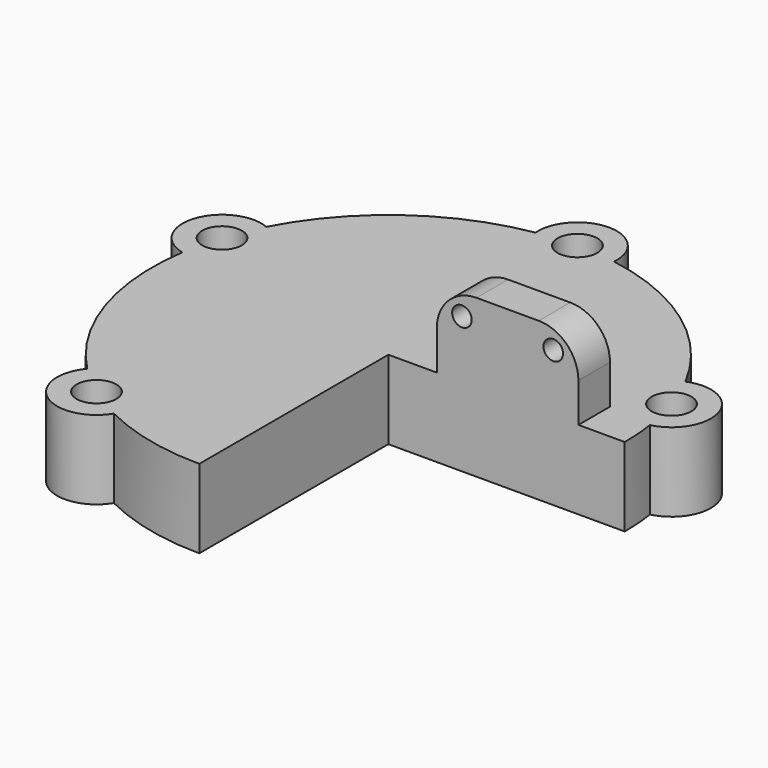
from build123d import *

# Parameters (mm, degrees)
F2_DEPTH  = 3.175
F4_DEPTH  = 3.175
F5_R      = 0.8001
F6_DEPTH  = 3.2004
F7_R      = 0.8001
F8_DEPTH  = 25.4
F9_W      = 5.7083697757
F9_H      = 1.5914540656
F10_DEPTH = 3.175
F12_DEPTH = 25.4
F13_R     = 0.3937
F14_DEPTH = 25.4


with BuildPart() as f2:
    # F1 (on face) → F2 (new body)
    with BuildSketch(Plane.XY):
        with BuildLine():
            ThreePointArc((-1.5819782441, 9.3927083333), (-6.1504992572, -7.2730312723), (9.525, 0))
            ThreePointArc((9.525, 0), (7.2730312723, 6.1504992572), (1.5819782441, 9.3927083333))
            ThreePointArc((1.5819782441, 9.3927083333), (1.191708121, 9.4501564407), (0.7993940003, 9.4913958))
            ThreePointArc((0.7993940003, 9.4913958), (0, 8.7249), (-0.7993940003, 9.4913958))
            ThreePointArc((-0.7993940003, 9.4913958), (-1.191708121, 9.4501564407), (-1.5819782441, 9.3927083333))
        make_face()
        with BuildLine():
            ThreePointArc((0.7993940003, 9.4913958), (1.191708121, 9.4501564407), (1.5819782441, 9.3927083333))
            ThreePointArc((1.5819782441, 9.3927083333), (0, 11.1125), (-1.5819782441, 9.3927083333))
            ThreePointArc((-1.5819782441, 9.3927083333), (-1.191708121, 9.4501564407), (-0.7993940003, 9.4913958))
            ThreePointArc((-0.7993940003, 9.4913958), (-0.0168058077, 10.3249234806), (0.8001, 9.525))
            ThreePointArc((0.8001, 9.525), (0.7999234806, 9.5081941923), (0.7993940003, 9.4913958))
        make_face()
    extrude(amount=F2_DEPTH)

    # F3 (on Top) → F4 (join)
    with BuildSketch(Plane.XY):
        with BuildLine():
            ThreePointArc((0.7993940003, 9.4913958), (1.191708121, 9.4501564407), (1.5819782441, 9.3927083333))
            ThreePointArc((1.5819782441, 9.3927083333), (0, 11.1125), (-1.5819782441, 9.3927083333))
            ThreePointArc((-1.5819782441, 9.3927083333), (-1.191708121, 9.4501564407), (-0.7993940003, 9.4913958))
            ThreePointArc((-0.7993940003, 9.4913958), (-0.0168058077, 10.3249234806), (0.8001, 9.525))
            ThreePointArc((0.8001, 9.525), (0.7999234806, 9.5081941923), (0.7993940003, 9.4913958))
        make_face()
        with BuildLine():
            ThreePointArc((-0.7993940003, 9.4913958), (0, 9.525), (0.7993940003, 9.4913958))
            ThreePointArc((0.7993940003, 9.4913958), (0.7999234806, 9.5081941923), (0.8001, 9.525))
            ThreePointArc((0.8001, 9.525), (-0.0168058077, 10.3249234806), (-0.7993940003, 9.4913958))
        make_face()
        with BuildLine():
            ThreePointArc((4.2410481532, -8.5287241462), (6.5317636161, -8.99020135), (6.8007427217, -6.6689971835))
            ThreePointArc((6.8007427217, -6.6689971835), (6.51877471, -6.9448687015), (6.2256258064, -7.2088284984))
            ThreePointArc((6.2256258064, -7.2088284984), (6.3542336867, -7.4427136488), (6.3987545281, -7.7058868714))
            ThreePointArc((6.3987545281, -7.7058868714), (5.8298612048, -8.4718525904), (4.9321791435, -8.1485725067))
            ThreePointArc((4.9321791435, -8.1485725067), (4.5905504655, -8.3458056186), (4.2410481532, -8.5287241462))
        make_face()
        with BuildLine():
            ThreePointArc((4.9321791435, -8.1485725067), (5.5986545281, -7.7058868714), (6.2256258064, -7.2088284984))
            ThreePointArc((6.2256258064, -7.2088284984), (5.1283675477, -7.0585923742), (4.9321791435, -8.1485725067))
        make_face()
        with BuildLine():
            ThreePointArc((9.4218546282, 1.3979557805), (10.5686155373, 3.43395135), (8.4441383039, 4.4070572159))
            ThreePointArc((8.4441383039, 4.4070572159), (8.6193748012, 4.0536407137), (8.779827493, 3.6932714756))
            ThreePointArc((8.779827493, 3.6932714756), (9.5154003585, 3.6004167674), (9.8589133177, 2.9433868714))
            ThreePointArc((9.8589133177, 2.9433868714), (9.6960868018, 2.4596074625), (9.2738801556, 2.1727337295))
            ThreePointArc((9.2738801556, 2.1727337295), (9.3558909247, 1.7868771657), (9.4218546282, 1.3979557805))
        make_face()
        with BuildLine():
            ThreePointArc((9.2738801556, 2.1727337295), (9.0588133177, 2.9433868714), (8.779827493, 3.6932714756))
            ThreePointArc((8.779827493, 3.6932714756), (8.297872999, 2.6961423742), (9.2738801556, 2.1727337295))
        make_face()
        with BuildLine():
            ThreePointArc((-8.2587133177, 2.9433868714), (-8.4017834218, 3.3999739122), (-8.779827493, 3.6932714756))
            ThreePointArc((-8.779827493, 3.6932714756), (-9.0588133177, 2.9433868714), (-9.2738801556, 2.1727337295))
            ThreePointArc((-9.2738801556, 2.1727337295), (-8.5750339088, 2.3061133873), (-8.2587133177, 2.9433868714))
        make_face()
        with BuildLine():
            ThreePointArc((-6.2256258064, -7.2088284984), (-6.51877471, -6.9448687015), (-6.8007427217, -6.6689971835))
            ThreePointArc((-6.8007427217, -6.6689971835), (-6.5317636161, -8.99020135), (-4.2410481532, -8.5287241462))
            ThreePointArc((-4.2410481532, -8.5287241462), (-4.5905504655, -8.3458056186), (-4.9321791435, -8.1485725067))
            ThreePointArc((-4.9321791435, -8.1485725067), (-6.0689415084, -8.3531813686), (-6.2256258064, -7.2088284984))
        make_face()
        with BuildLine():
            ThreePointArc((-4.7985545281, -7.7058868714), (-5.3354813054, -6.9503077128), (-6.2256258064, -7.2088284984))
            ThreePointArc((-6.2256258064, -7.2088284984), (-5.5986545281, -7.7058868714), (-4.9321791435, -8.1485725067))
            ThreePointArc((-4.9321791435, -8.1485725067), (-4.8326888091, -7.9370935482), (-4.7985545281, -7.7058868714))
        make_face()
        with BuildLine():
            ThreePointArc((-0.7993940003, 9.4913958), (0, 8.7249), (0.7993940003, 9.4913958))
            ThreePointArc((0.7993940003, 9.4913958), (0, 9.525), (-0.7993940003, 9.4913958))
        make_face()
        with BuildLine():
            ThreePointArc((6.3987545281, -7.7058868714), (6.3542336867, -7.4427136488), (6.2256258064, -7.2088284984))
            ThreePointArc((6.2256258064, -7.2088284984), (5.5986545281, -7.7058868714), (4.9321791435, -8.1485725067))
            ThreePointArc((4.9321791435, -8.1485725067), (5.8298612048, -8.4718525904), (6.3987545281, -7.7058868714))
        make_face()
        with BuildLine():
            ThreePointArc((9.8589133177, 2.9433868714), (9.5154003585, 3.6004167674), (8.779827493, 3.6932714756))
            ThreePointArc((8.779827493, 3.6932714756), (9.0588133177, 2.9433868714), (9.2738801556, 2.1727337295))
            ThreePointArc((9.2738801556, 2.1727337295), (9.6960868018, 2.4596074625), (9.8589133177, 2.9433868714))
        make_face()
        with BuildLine():
            ThreePointArc((-9.2738801556, 2.1727337295), (-9.0588133177, 2.9433868714), (-8.779827493, 3.6932714756))
            ThreePointArc((-8.779827493, 3.6932714756), (-9.8197536364, 3.1906313686), (-9.2738801556, 2.1727337295))
        make_face()
        with BuildLine():
            ThreePointArc((-4.9321791435, -8.1485725067), (-5.5986545281, -7.7058868714), (-6.2256258064, -7.2088284984))
            ThreePointArc((-6.2256258064, -7.2088284984), (-6.0689415084, -8.3531813686), (-4.9321791435, -8.1485725067))
        make_face()
        with BuildLine():
            ThreePointArc((-8.779827493, 3.6932714756), (-8.6193748012, 4.0536407137), (-8.4441383039, 4.4070572159))
            ThreePointArc((-8.4441383039, 4.4070572159), (-10.5686155373, 3.43395135), (-9.4218546282, 1.3979557805))
            ThreePointArc((-9.4218546282, 1.3979557805), (-9.3558909247, 1.7868771657), (-9.2738801556, 2.1727337295))
            ThreePointArc((-9.2738801556, 2.1727337295), (-9.8197536364, 3.1906313686), (-8.779827493, 3.6932714756))
        make_face()
    extrude(amount=F4_DEPTH)

    # F5 (on face) → F6 (cut)
    with BuildSketch(Plane.XY.offset(3.175)):
        with Locations((0, 9.525)):
            Circle(F5_R)
        with Locations((-9.0588133177, 2.9433868714)):
            Circle(F5_R)
        with Locations((-5.5986545281, -7.7058868714)):
            Circle(F5_R)
        with Locations((5.5986545281, -7.7058868714)):
            Circle(F5_R)
        with Locations((9.0588133177, 2.9433868714)):
            Circle(F5_R)
    extrude(amount=-F6_DEPTH, mode=Mode.SUBTRACT)

    # F7 (on face) → F8 (cut)
    with BuildSketch(Plane.XY.offset(3.175)):
        with BuildLine():
            ThreePointArc((6.8007427217, -6.6689971835), (8.8176725791, -3.6019821332), (9.525, 0))
            Line((9.525, 0), (0, 0))
            Line((0, 0), (0, -9.525))
            ThreePointArc((0, -9.525), (2.1782478632, -9.2725865456), (4.2410481532, -8.5287241462))
            ThreePointArc((4.2410481532, -8.5287241462), (6.5317636161, -8.99020135), (6.8007427217, -6.6689971835))
        make_face()
        with Locations((5.5986545281, -7.7058868714)):
            Circle(F7_R, mode=Mode.SUBTRACT)
    extrude(amount=-F8_DEPTH, mode=Mode.SUBTRACT)

    # F9 (on face) → F10 (join)
    with BuildSketch(Plane.XY.offset(3.175)):
        with Locations((4.8052559723, 0.7957270328)):
            Rectangle(F9_W, F9_H)
    extrude(amount=F10_DEPTH)

    # F11 (on face) → F12 (cut)
    with BuildSketch(Plane.XZ):
        with BuildLine():
            Line((1.9510710845, 6.35), (1.9510710845, 4.7498))
            ThreePointArc((1.9510710845, 4.7498), (2.4197588132, 5.8813122713), (3.5512710845, 6.35))
            Line((3.5512710845, 6.35), (1.9510710845, 6.35))
        make_face()
        with BuildLine():
            Line((7.6594408602, 6.35), (6.0592408602, 6.35))
            ThreePointArc((6.0592408602, 6.35), (7.1907531314, 5.8813122713), (7.6594408602, 4.7498))
            Line((7.6594408602, 4.7498), (7.6594408602, 6.35))
        make_face()
    extrude(amount=-F12_DEPTH, mode=Mode.SUBTRACT)

    # F13 (on face) → F14 (cut)
    with BuildSketch(Plane.XZ):
        with Locations((6.645900663, 5.5013904348)):
            Circle(F13_R)
        with Locations((2.9646112816, 5.5013904348)):
            Circle(F13_R)
    extrude(amount=-F14_DEPTH, mode=Mode.SUBTRACT)


solid = f2.part
